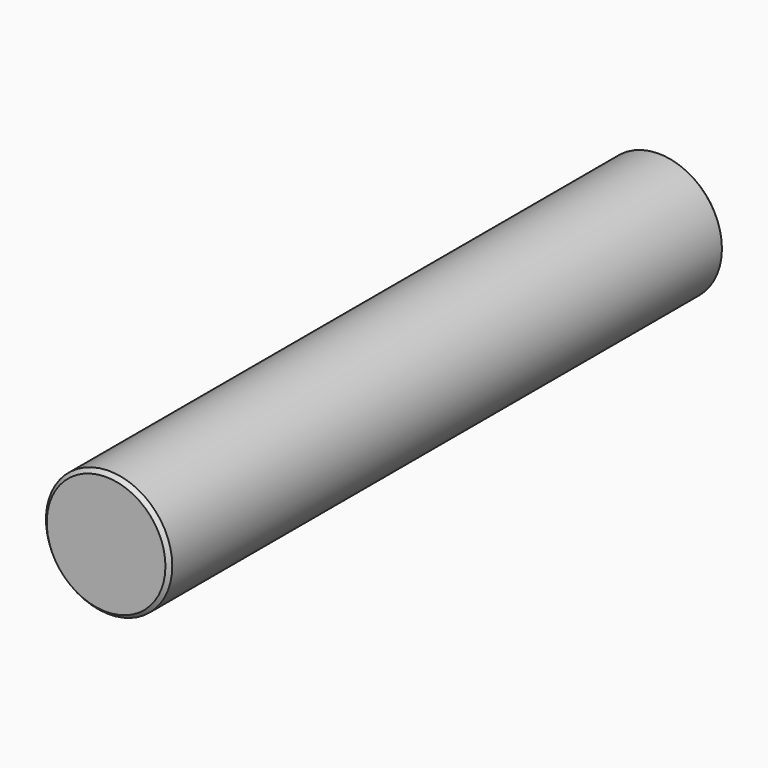
from build123d import *

# Parameters (mm, degrees)
F0_R     = 25.4
F1_DEPTH = 139.7
F2_SIZE  = 1.524


with BuildPart() as f1:
    # F0 (on Front) → F1 (new body, symmetric)
    with BuildSketch(Plane.XZ):
        Circle(F0_R)
    extrude(amount=F1_DEPTH, both=True)

    # F2
    f2_edges = [f1.edges().sort_by_distance(p)[0] for p in [
        (-25.4, 139.7, 0),
        (25.4, 0, 0),
        (-25.4, -139.7, 0),
    ]]
    chamfer(f2_edges, length=F2_SIZE)


solid = f1.part
